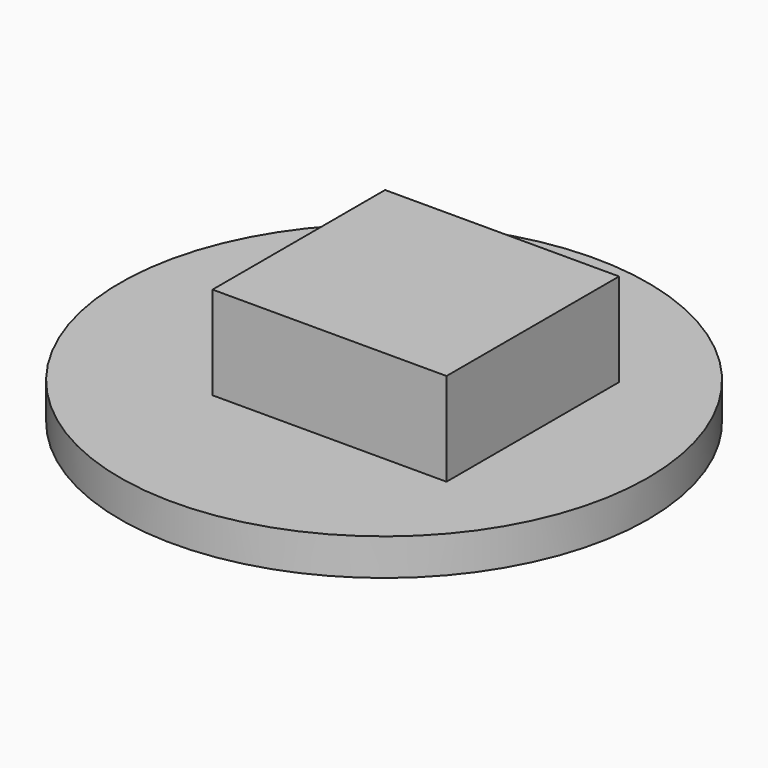
from build123d import *

# Parameters (mm, degrees)
F0_R     = 72.029684
F1_DEPTH = 10
F2_W     = 63.849527
F2_H     = 58.85705
F3_DEPTH = 25.4


with BuildPart() as f1:
    # F0 (on Top) → F1 (new body)
    with BuildSketch(Plane.XY):
        Circle(F0_R)
    extrude(amount=F1_DEPTH)

    # F2 (on face) → F3 (join)
    with BuildSketch(Plane.XY.offset(10)):
        with Locations((7.703924, 1.189869)):
            Rectangle(F2_W, F2_H)
    extrude(amount=F3_DEPTH)


solid = f1.part
